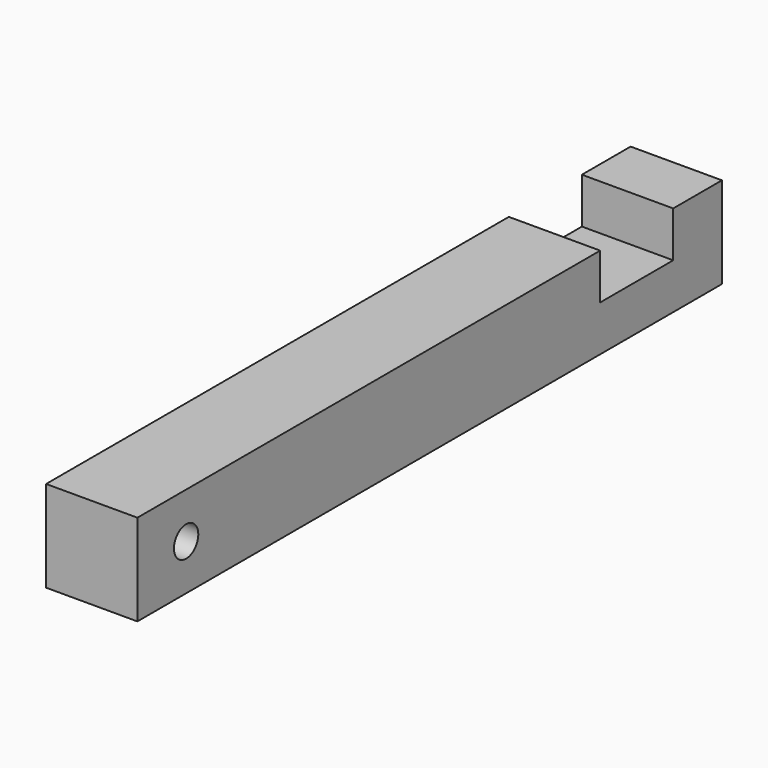
from build123d import *

# Parameters (mm, degrees)
F0_W     = 19.05
F0_H     = 19.05
F1_DEPTH = 9.525
F0_H_2   = 120.65
F0_H_3   = 12.7
F2_DEPTH = 19.05
F4_D     = 6.35


with BuildPart() as f1:
    # F0 (on Top) → F1 (new body)
    with BuildSketch(Plane.XY):
        with Locations((-25.66231, 87.892967)):
            Rectangle(F0_W, F0_H)
    extrude(amount=F1_DEPTH)

    # F0 (on Top) → F2 (join)
    with BuildSketch(Plane.XY):
        with Locations((-25.66231, 18.042967)):
            Rectangle(F0_W, F0_H_2)
        with Locations((-25.66231, 103.767967)):
            Rectangle(F0_W, F0_H_3)
    extrude(amount=F2_DEPTH)

    # F4 (through all)
    with Locations(Plane(origin=(-35.18731, 0, 0), x_dir=(0, -1, 0), z_dir=(-1, 0, 0))):
        with Locations((29.582033, 9.525)):
            Hole(F4_D / 2)


solid = f1.part
